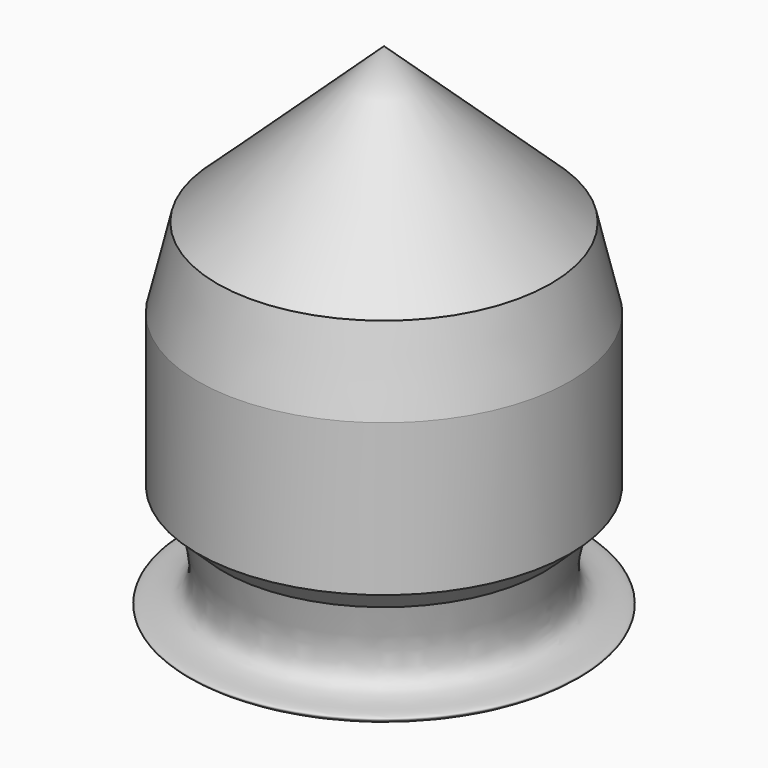
from build123d import *


with BuildPart() as f1:
    # F0 (on Front) → F1 (revolve)
    with BuildSketch(Plane.XZ):
        with BuildLine():
            Line((0, 29.0179625154), (0, -30.4779857397))
            add(Edge.make_bspline(
                [(18.3415431529, -17.8852844983), (17.4927316572, -21.2691556038), (16.0328577594, -27.0890875027), (25.761294183, -26.359265491), (12.6924702021, -31.4829979971), (4.5737883167, -30.8401463946), (0, -30.4779857397)],
                knots=[0, 0, 0, 0, 0.2444262269, 0.4203895333, 0.6734672428, 1, 1, 1, 1], degree=3))
            Line((18.3415431529, -17.8852844983), (21.261587739, -15.147741884))
            Line((21.261587739, -15.147741884), (21.261587739, -6.3876016065))
            Line((21.261587739, -6.3876016065), (21.261587739, 2.1900348365))
            Line((21.261587739, 2.1900348365), (19.0715547651, 11.3151799887))
            Line((19.0715547651, 11.3151799887), (0, 29.0179625154))
        make_face()
    revolve(axis=Axis((0, 0, 2.9200445861), (0, 0, 1)))


solid = f1.part
